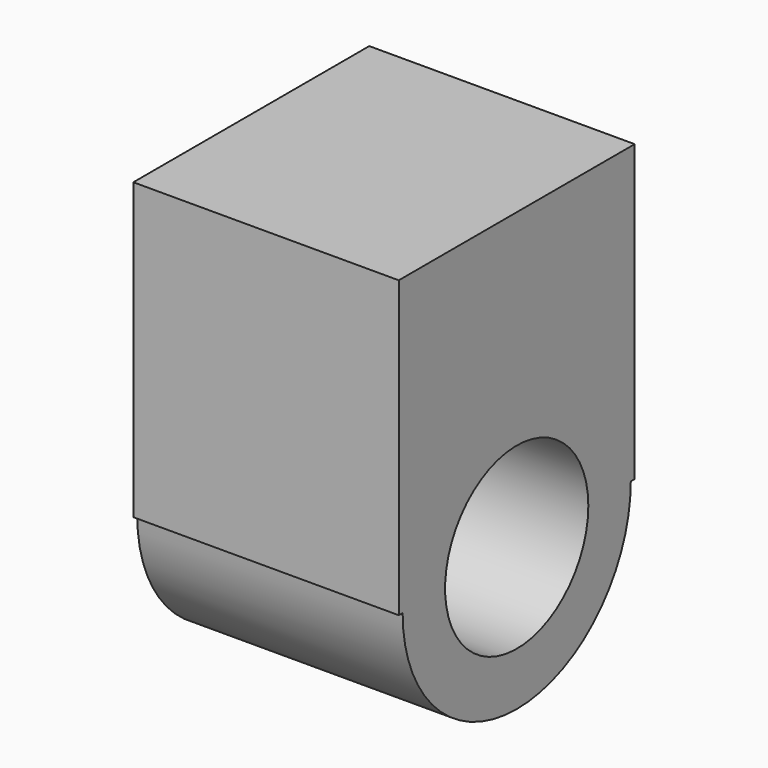
from build123d import *

# Parameters (mm, degrees)
F0_R     = 8.566365
F1_DEPTH = 25.4


with BuildPart() as f1:
    # F0 (on Right) → F1 (new body)
    with BuildSketch(Plane.YZ):
        with BuildLine():
            ThreePointArc((-13.646364, -14.109148), (0, -27.755512), (13.646364, -14.109148))
            ThreePointArc((13.646364, -14.109148), (0, -0.462783), (-13.646364, -14.109148))
        make_face()
        with Locations((0, -14.109148)):
            Circle(F0_R, mode=Mode.SUBTRACT)
        with BuildLine():
            Line((14.109148, -14.109148), (14.109148, 14.109148))
            Line((14.109148, 14.109148), (-14.109148, 14.109148))
            Line((-14.109148, 14.109148), (-14.109148, -14.109148))
            Line((-14.109148, -14.109148), (-13.646364, -14.109148))
            ThreePointArc((-13.646364, -14.109148), (0, -0.462783), (13.646364, -14.109148))
            Line((13.646364, -14.109148), (14.109148, -14.109148))
        make_face()
    extrude(amount=F1_DEPTH)


solid = f1.part
